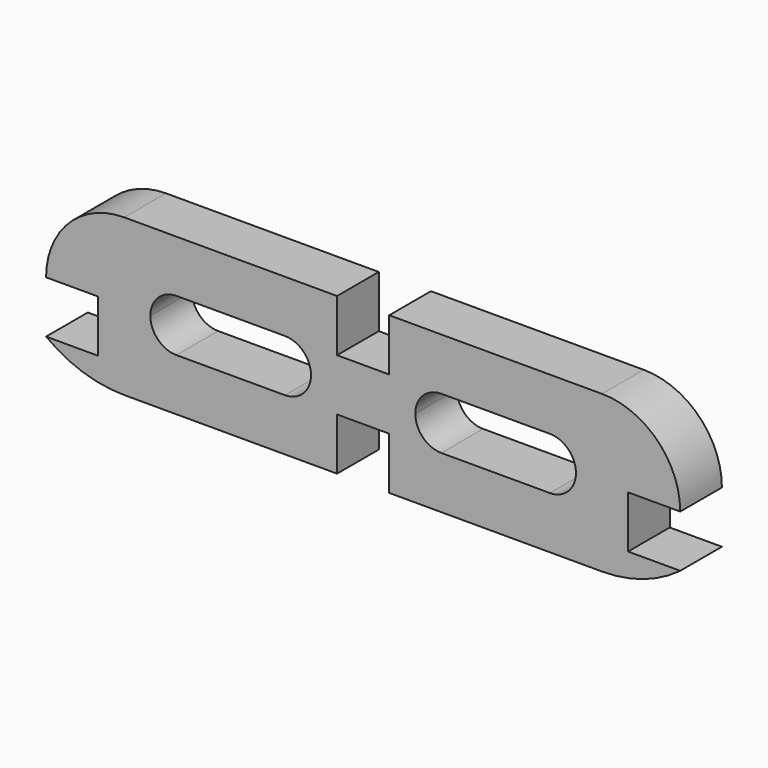
from build123d import *

# Parameters (mm, degrees)
F1_DEPTH = 25.4
F2_W     = 25.4
F2_H     = 25.4
F3_DEPTH = 25.4


with BuildPart() as f1:
    # F0 (on Front) → F1 (new body)
    with BuildSketch(Plane.XZ):
        with BuildLine():
            Line((-154.4574, 12.7), (-129.0574, 12.7))
            Line((-129.0574, 12.7), (-129.0574, -12.7))
            Line((-129.0574, -12.7), (-154.4574, -12.7))
            ThreePointArc((-154.4574, -12.7), (-136.437863, -22.141389), (-116.3574, -25.4))
            Line((-116.3574, -25.4), (0, -25.4))
            Line((0, -25.4), (116.3574, -25.4))
            ThreePointArc((116.3574, -25.4), (136.437863, -22.141389), (154.4574, -12.7))
            Line((154.4574, -12.7), (129.0574, -12.7))
            Line((129.0574, -12.7), (129.0574, 12.7))
            Line((129.0574, 12.7), (154.4574, 12.7))
            ThreePointArc((154.4574, 12.7), (143.298168, 39.640768), (116.3574, 50.8))
            Line((116.3574, 50.8), (0, 50.8))
            Line((0, 50.8), (-116.3574, 50.8))
            ThreePointArc((-116.3574, 50.8), (-143.298168, 39.640768), (-154.4574, 12.7))
        make_face()
        with BuildLine():
            ThreePointArc((-103.6574, 12.7), (-99.937656, 21.680256), (-90.9574, 25.4))
            Line((-90.9574, 25.4), (-38.1, 25.4))
            ThreePointArc((-38.1, 25.4), (-29.119744, 21.680256), (-25.4, 12.7))
            ThreePointArc((-25.4, 12.7), (-29.119744, 3.719744), (-38.1, 0))
            Line((-38.1, 0), (-90.9574, 0))
            ThreePointArc((-90.9574, 0), (-99.937656, 3.719744), (-103.6574, 12.7))
        make_face(mode=Mode.SUBTRACT)
        with BuildLine():
            Line((38.1, 25.4), (90.9574, 25.4))
            ThreePointArc((90.9574, 25.4), (99.937656, 21.680256), (103.6574, 12.7))
            ThreePointArc((103.6574, 12.7), (99.937656, 3.719744), (90.9574, 0))
            Line((90.9574, 0), (38.1, 0))
            ThreePointArc((38.1, 0), (29.119744, 3.719744), (25.4, 12.7))
            ThreePointArc((25.4, 12.7), (29.119744, 21.680256), (38.1, 25.4))
        make_face(mode=Mode.SUBTRACT)
    extrude(amount=F1_DEPTH)

    # F2 (on face) → F3 (cut)
    with BuildSketch(Plane.XZ.offset(25.4)):
        with Locations((0, 38.1)):
            Rectangle(F2_W, F2_H)
        with Locations((0, -12.7)):
            Rectangle(F2_W, F2_H)
    extrude(amount=-F3_DEPTH, mode=Mode.SUBTRACT)


solid = f1.part
